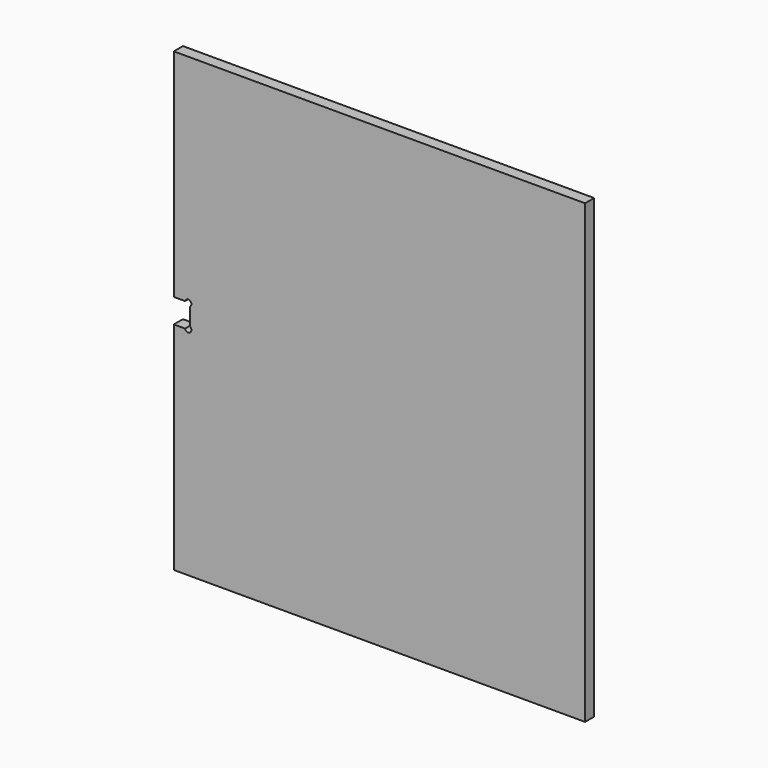
from build123d import *

# Parameters (mm, degrees)
F1_DEPTH = 25


with BuildPart() as f1:
    # F0 (on Front) → F1 (new body)
    with BuildSketch(Plane.XZ):
        with BuildLine():
            Line((900.710799, 500), (0, 500))
            Line((0, 500), (0, 26.5))
            Line((0, 26.5), (24.662603, 26.5))
            ThreePointArc((24.662603, 26.5), (35.390196, 30.819482), (35.5, 19.255437))
            Line((35.5, 19.255437), (35.5, -19.255437))
            ThreePointArc((35.5, -19.255437), (35.390196, -30.819482), (24.662603, -26.5))
            Line((24.662603, -26.5), (0, -26.5))
            Line((0, -26.5), (0, -500))
            Line((0, -500), (900.710799, -500))
            Line((900.710799, -500), (900.710799, 500))
        make_face()
    extrude(amount=F1_DEPTH)


solid = f1.part
